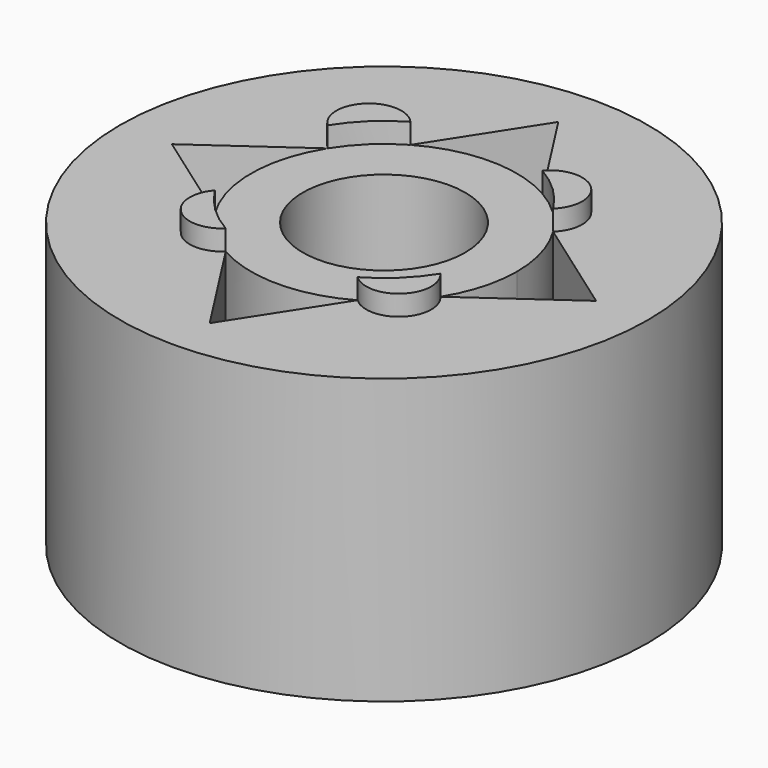
from build123d import *

# Parameters (mm, degrees)
F0_R     = 6.5
F0_R_2   = 2
F1_DEPTH = 7
F3_DEPTH = 25
F4_DEPTH = 0.5


with BuildPart() as f1:
    # F0 (on Top) → F1 (new body)
    with BuildSketch(Plane.XY):
        Circle(F0_R)
        Circle(F0_R_2, mode=Mode.SUBTRACT)
    extrude(amount=F1_DEPTH)

    # F2 (on face) → F3 (cut)
    with BuildSketch(Plane.XY.offset(7)):
        with BuildLine():
            ThreePointArc((-2.775807, -1.735036), (-3.273446, 0), (-2.775807, 1.735036))
            Line((-2.775807, 1.735036), (-5.223183, 0))
            Line((-5.223183, 0), (-2.775807, -1.735036))
        make_face()
        with BuildLine():
            Line((0, -5.365163), (1.623553, -2.842451))
            ThreePointArc((1.623553, -2.842451), (0, -3.273446), (-1.623553, -2.842451))
            Line((-1.623553, -2.842451), (0, -5.365163))
        make_face()
        with BuildLine():
            ThreePointArc((2.775807, 1.735036), (3.146578, 0.902496), (3.273446, 0))
            ThreePointArc((3.273446, 0), (3.146578, -0.902496), (2.775807, -1.735036))
            Line((2.775807, -1.735036), (5.223183, 0))
            Line((5.223183, 0), (2.775807, 1.735036))
        make_face()
        with BuildLine():
            ThreePointArc((-1.623553, 2.842451), (0, 3.273446), (1.623553, 2.842451))
            Line((1.623553, 2.842451), (0, 5.365163))
            Line((0, 5.365163), (-1.623553, 2.842451))
        make_face()
    extrude(amount=-F3_DEPTH, mode=Mode.SUBTRACT)

    # F2 (on face) → F4 (join)
    with BuildSketch(Plane.XY.offset(7)):
        with BuildLine():
            ThreePointArc((1.623553, 2.842451), (2.2683, 2.360142), (2.775807, 1.735036))
            ThreePointArc((2.775807, 1.735036), (2.780742, 2.893332), (1.623553, 2.842451))
        make_face()
        with BuildLine():
            ThreePointArc((-2.775807, 1.735036), (-2.2683, 2.360142), (-1.623553, 2.842451))
            ThreePointArc((-1.623553, 2.842451), (-2.780742, 2.893332), (-2.775807, 1.735036))
        make_face()
        with BuildLine():
            ThreePointArc((-2.775807, -1.735036), (-2.727321, -2.837748), (-1.623553, -2.842451))
            ThreePointArc((-1.623553, -2.842451), (-2.2683, -2.360142), (-2.775807, -1.735036))
        make_face()
        with BuildLine():
            ThreePointArc((1.623553, -2.842451), (2.727321, -2.837748), (2.775807, -1.735036))
            ThreePointArc((2.775807, -1.735036), (2.2683, -2.360142), (1.623553, -2.842451))
        make_face()
    extrude(amount=F4_DEPTH)


solid = f1.part
